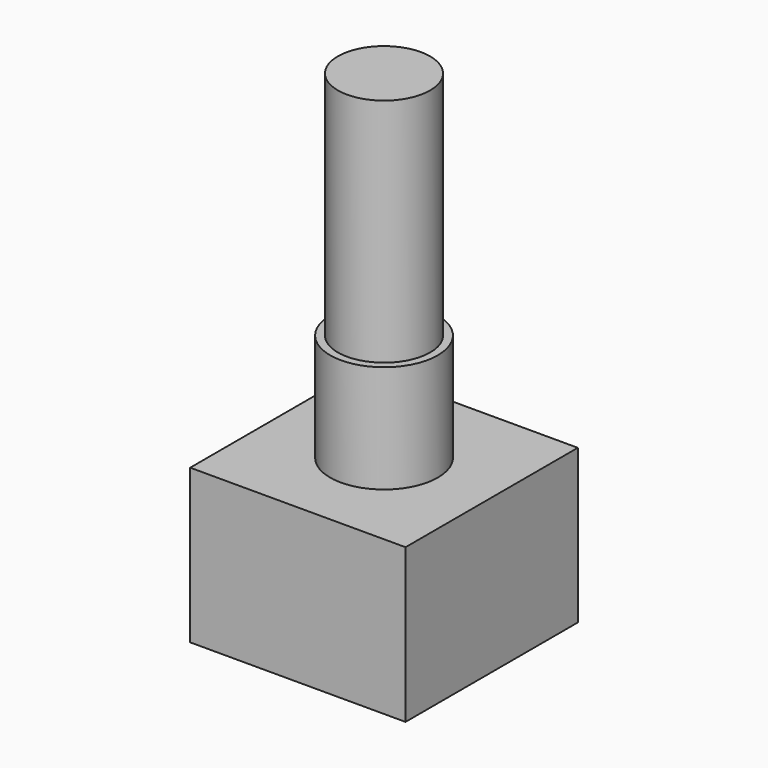
from build123d import *

# Parameters (mm, degrees)
SKETCH029_W  = 14
SKETCH029_H  = 14
PAD014_DEPTH = 10
SKETCH030_R  = 3.5
PAD015_DEPTH = 7
SKETCH031_R  = 3
PAD016_DEPTH = 15


with BuildPart() as part:
    # Sketch029 → Pad014 (new body)
    with BuildSketch(Plane.XY):
        with Locations((7, 7)):
            Rectangle(SKETCH029_W, SKETCH029_H)
    extrude(amount=-PAD014_DEPTH)

    # Sketch030 → Pad015 (join)
    with BuildSketch(Plane.XY):
        with Locations((7, 7)):
            Circle(SKETCH030_R)
    extrude(amount=PAD015_DEPTH)

    # Sketch031 (on Face8 of Pad015) → Pad016 (join)
    with BuildSketch(Plane.XY.offset(7)):
        with Locations((7, 7)):
            Circle(SKETCH031_R)
    extrude(amount=PAD016_DEPTH)


with BuildPart() as part_1:
    # Body004 placement: moved
    add(part.part.moved(Location((11, 47, 39.4))))


solid = part_1.part
